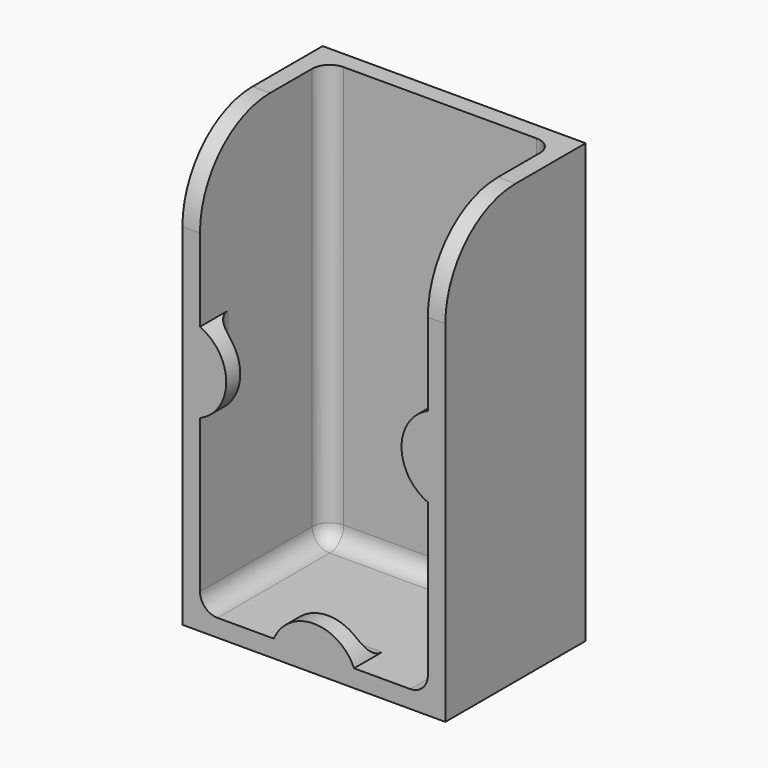
from build123d import *

# Parameters (mm, degrees)
F0_W     = 30
F0_H     = 20
F0_W_2   = 26
F0_H_2   = 16
F1_DEPTH = 50
F2_W     = 30
F2_H     = 20
F3_DEPTH = 2
F5_DEPTH = 2
F6_R     = 10
F7_R     = 2


with BuildPart() as f1:
    # F0 (on Top) → F1 (new body)
    with BuildSketch(Plane.XY):
        Rectangle(F0_W, F0_H)
        Rectangle(F0_W_2, F0_H_2, mode=Mode.SUBTRACT)
    extrude(amount=F1_DEPTH)

    # F2 (on Top) → F3 (join)
    with BuildSketch(Plane.XY):
        Rectangle(F2_W, F2_H)
    extrude(amount=F3_DEPTH)

    # F4 (on face) → F5 (cut, through all)
    with BuildSketch(Plane.XZ.offset(10)):
        with BuildLine():
            Line((13, 50), (-13, 50))
            Line((-13, 50), (-13, 30.582575695))
            ThreePointArc((-13, 30.582575695), (-10, 26), (-13, 21.417424305))
            Line((-13, 21.417424305), (-13, 2))
            Line((-13, 2), (-4.582575695, 2))
            ThreePointArc((-4.582575695, 2), (0, 5), (4.582575695, 2))
            Line((4.582575695, 2), (13, 2))
            Line((13, 2), (13, 21.417424305))
            ThreePointArc((13, 21.417424305), (10, 26), (13, 30.582575695))
            Line((13, 30.582575695), (13, 50))
        make_face()
    extrude(amount=-F5_DEPTH, mode=Mode.SUBTRACT)

    # F6
    f6_edges = [f1.edges().sort_by_distance(p)[0] for p in [
        (14, -10, 50),
        (-14, -10, 50),
    ]]
    fillet(f6_edges, radius=F6_R)

    # F7
    f7_edges = [f1.edges().sort_by_distance(p)[0] for p in [
        (13, -1, 2),
        (13, 8, 26),
        (0, 8, 2),
        (-13, -1, 2),
        (-13, 8, 26),
        (13, -8, 26),
        (-13, -8, 26),
        (0, -8, 2),
    ]]
    fillet(f7_edges, radius=F7_R)


solid = f1.part
